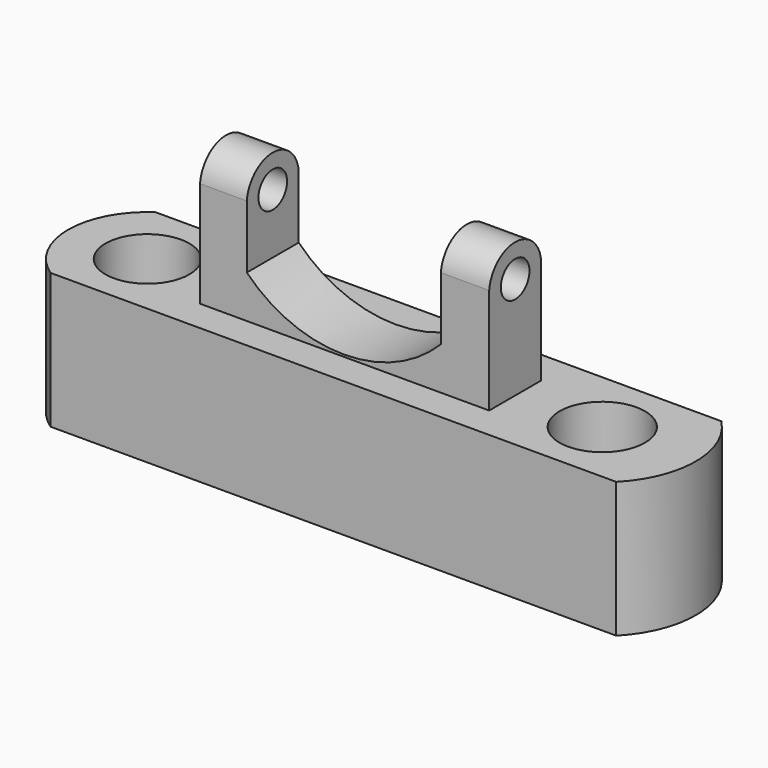
from build123d import *

# Parameters (mm, degrees)
F0_R     = 7.8658205016
F0_R_2   = 8.0096944888
F1_DEPTH = 25.4
F2_W     = 54.2384404689
F2_H     = 12.1728531085
F3_DEPTH = 25.4
F5_DEPTH = 25.4
F6_R     = 3.3542510186
F7_DEPTH = 77.978


with BuildPart() as f1:
    # F0 (on Top) → F1 (new body)
    with BuildSketch(Plane.XY):
        with BuildLine():
            ThreePointArc((-47.5300452468, 0), (-54.0726039784, -12.3169262593), (-47.5300452468, -24.6338525186))
            Line((-47.5300452468, -24.6338525186), (58.5692822962, -24.6338525186))
            ThreePointArc((58.5692822962, -24.6338525186), (63.62716281, -12.3169262593), (58.5692822962, 0))
            Line((58.5692822962, 0), (-47.5300452468, 0))
        make_face()
        with Locations((-39.2074911675, -12.3169262593)):
            Circle(F0_R, mode=Mode.SUBTRACT)
        with Locations((46.10116281, -12.3169262593)):
            Circle(F0_R_2, mode=Mode.SUBTRACT)
    extrude(amount=F1_DEPTH)

    # F2 (on face) → F3 (join)
    with BuildSketch(Plane.XY.offset(25.4)):
        with Locations((2.7952184901, -12.50546542)):
            Rectangle(F2_W, F2_H)
    extrude(amount=F3_DEPTH)

    # F4 (on face) → F5 (cut)
    with BuildSketch(Plane(origin=(0, -6.4190388657, 0), x_dir=(-1, 0, 0), z_dir=(0, 1, 0))):
        with BuildLine():
            Line((15.5491959304, 50.8), (-20.8479575813, 50.8))
            Line((-20.8479575813, 50.8), (-20.8479575813, 33.394984901))
            ThreePointArc((-20.8479575813, 33.394984901), (-2.6493808255, 25.785842215), (15.5491959304, 33.394984901))
            Line((15.5491959304, 33.394984901), (15.5491959304, 50.8))
        make_face()
    extrude(amount=-F5_DEPTH, mode=Mode.SUBTRACT)

    # F6 (on face) → F7 (cut)
    with BuildSketch(Plane(origin=(-24.3240017444, 0, 0), x_dir=(0, -1, 0), z_dir=(-1, 0, 0))):
        with BuildLine():
            ThreePointArc((6.4190388657, 45.2219136059), (12.5051093125, 50.7371205343), (18.5918919742, 45.2226996422))
            Line((18.5918919742, 45.2226996422), (18.5918919742, 50.8))
            Line((18.5918919742, 50.8), (6.4190388657, 50.8))
            Line((6.4190388657, 50.8), (6.4190388657, 45.2219136059))
        make_face()
        with Locations((12.5055042435, 44.6210700417)):
            Circle(F6_R)
    extrude(amount=-F7_DEPTH, mode=Mode.SUBTRACT)


solid = f1.part
